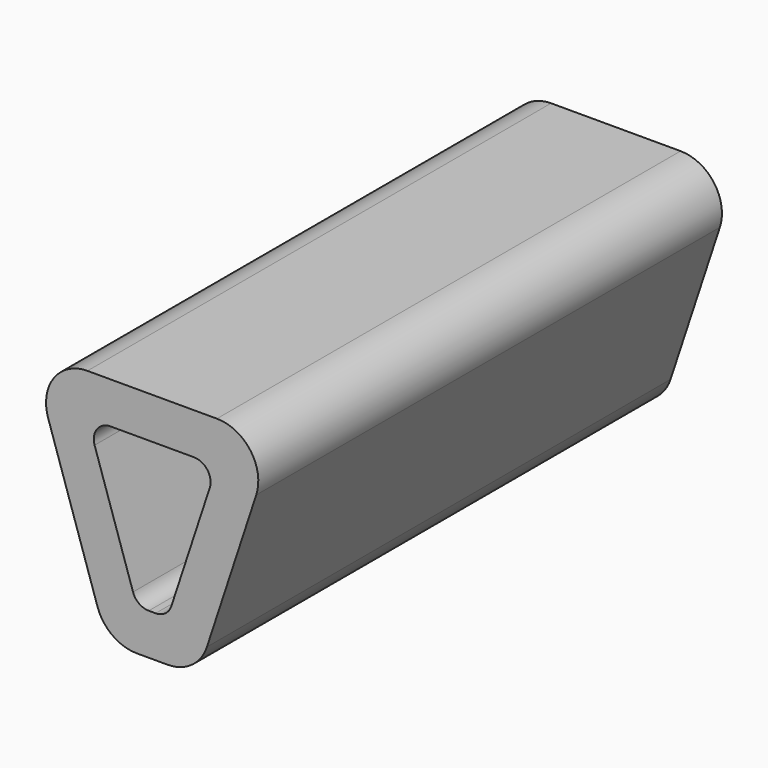
from build123d import *

# Parameters (mm, degrees)
F1_DEPTH = 70
F2_R     = 5
F3_R     = 2


with BuildPart() as f1:
    # F0 (on Front) → F1 (new body)
    with BuildSketch(Plane.XZ):
        Polygon((14.728606, 17.047576), (0, 17.047576), (-14.728606, 17.047576), (-5.480258, -11.053172), (0, -11.053172), (5.480258, -11.053172), align=None)
        Polygon((-7.819207, 12.047576), (0, 12.047576), (7.819207, 12.047576), (1.861998, -6.053172), (0, -6.053172), (-1.861998, -6.053172), align=None, mode=Mode.SUBTRACT)
    extrude(amount=F1_DEPTH)

    # F2
    f2_edges = [f1.edges().sort_by_distance(p)[0] for p in [
        (14.728606, -35, 17.047576),
        (5.480258, -35, -11.053172),
        (-5.480258, -35, -11.053172),
        (-14.728606, -35, 17.047576),
    ]]
    fillet(f2_edges, radius=F2_R)

    # F3
    f3_edges = [f1.edges().sort_by_distance(p)[0] for p in [
        (-1.861998, -35, -6.053172),
        (1.861998, -35, -6.053172),
        (7.819207, -35, 12.047576),
        (-7.819207, -35, 12.047576),
    ]]
    fillet(f3_edges, radius=F3_R)


solid = f1.part
